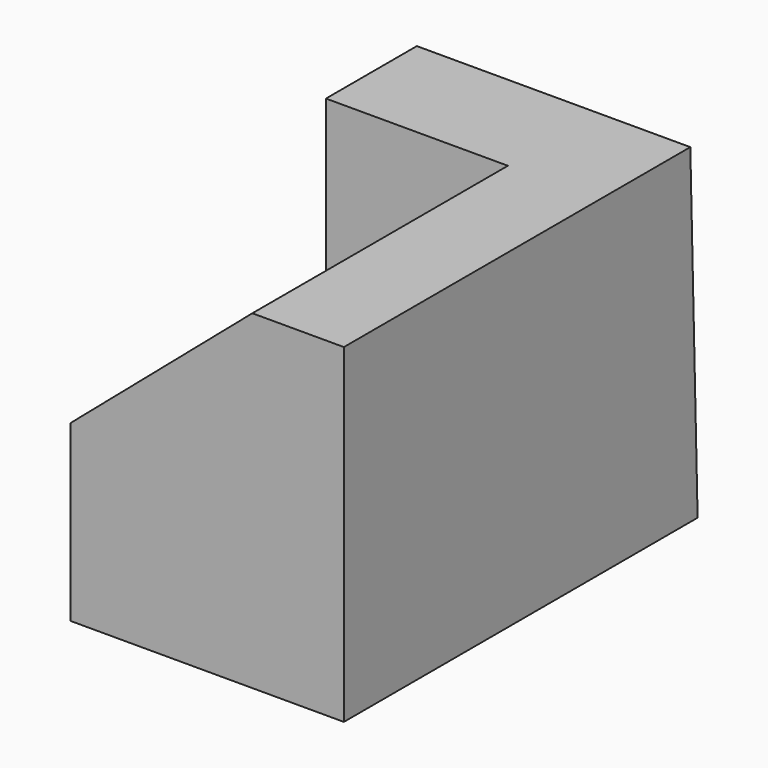
from build123d import *

# Parameters (mm, degrees)
F1_DEPTH = 65.024
F3_DEPTH = 75.946


with BuildPart() as f1:
    # F0 (on Right) → F1 (new body)
    with BuildSketch(Plane.YZ):
        Polygon((46.052266, 37.058897), (-56.906339, 37.058897), (-56.906339, -41.400526), (48.223082, -41.400526), align=None)
    extrude(amount=F1_DEPTH)

    # F2 (on face) → F3 (cut)
    with BuildSketch(Plane.XZ.offset(56.906339)):
        Polygon((0, 0), (43.261223, 37.058897), (0, 37.058897), align=None)
    extrude(amount=-F3_DEPTH, mode=Mode.SUBTRACT)


solid = f1.part
